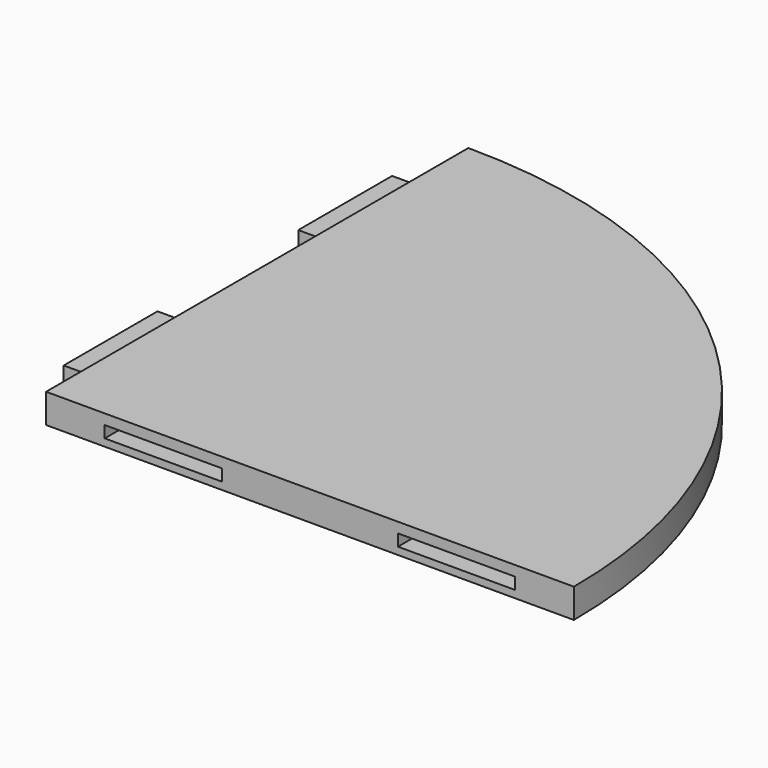
from build123d import *

# Parameters (mm, degrees)
F1_DEPTH = 12.7
F2_W     = 50.8
F2_H     = 5.08
F3_DEPTH = 12.7
F4_W     = 50.8
F4_H     = 5.08
F5_DEPTH = 12.7
F6_W     = 50.8
F6_H     = 3.175
F7_DEPTH = 3.176
F8_W     = 3.175
F8_H     = 50.8
F9_DEPTH = 3.175


with BuildPart() as f1:
    # F0 (on Top) → F1 (new body)
    with BuildSketch(Plane.XY):
        with BuildLine():
            Line((0, 228.6), (0, 0))
            Line((0, 0), (228.6, 0))
            ThreePointArc((228.6, 0), (161.64461, 161.64461), (0, 228.6))
        make_face()
    extrude(amount=F1_DEPTH)

    # F2 (on face) → F3 (cut)
    with BuildSketch(Plane.XZ):
        with Locations((50.8, 5.715)):
            Rectangle(F2_W, F2_H)
        with Locations((177.8, 5.715)):
            Rectangle(F2_W, F2_H)
    extrude(amount=-F3_DEPTH, mode=Mode.SUBTRACT)

    # F4 (on face) → F5 (join)
    with BuildSketch(Plane(origin=(0, 0, 0), x_dir=(0, -1, 0), z_dir=(-1, 0, 0))):
        with Locations((-50.8, 5.715)):
            Rectangle(F4_W, F4_H)
        with Locations((-177.8, 5.715)):
            Rectangle(F4_W, F4_H)
    extrude(amount=F5_DEPTH)

    # F6 (on face) → F7 (cut, through all)
    with BuildSketch(Plane.XY.offset(3.175)):
        with Locations((50.8, 11.1125)):
            Rectangle(F6_W, F6_H)
        with Locations((177.8, 11.1125)):
            Rectangle(F6_W, F6_H)
    extrude(amount=-F7_DEPTH, mode=Mode.SUBTRACT)

    # F8 (on face) → F9 (join)
    with BuildSketch(Plane(origin=(0, 0, 3.175), x_dir=(1, 0, 0), z_dir=(0, 0, -1))):
        with Locations((-11.1125, -177.8)):
            Rectangle(F8_W, F8_H)
        with Locations((-11.1125, -50.8)):
            Rectangle(F8_W, F8_H)
    extrude(amount=F9_DEPTH)


solid = f1.part
